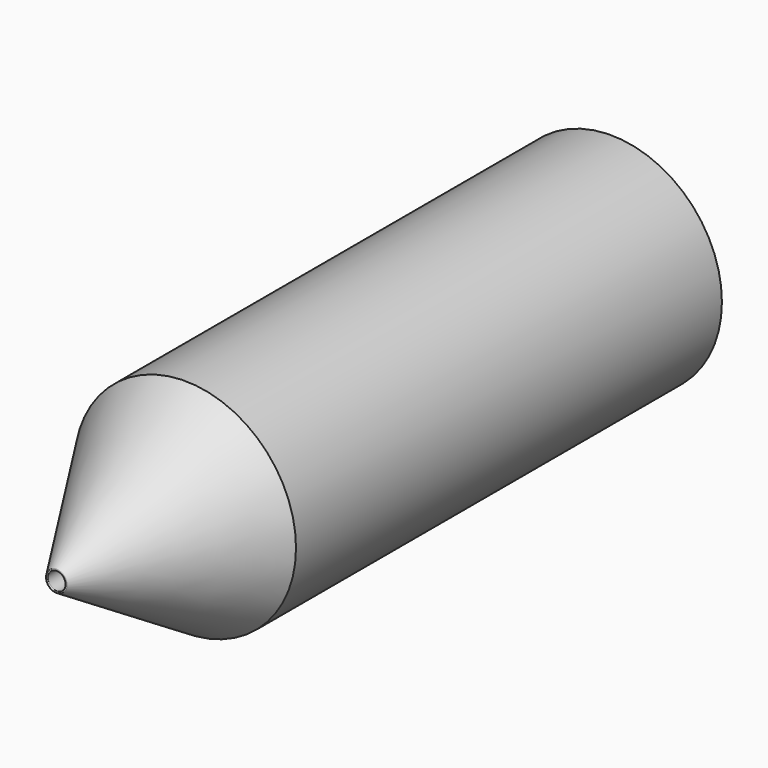
from build123d import *

# Parameters (mm, degrees)
F0_R     = 31.75
F0_R_2   = 27.94
F1_DEPTH = 76.2
F4_R     = 0.254


with BuildPart() as f1:
    # F0 (on Front) → F1 (new body, symmetric)
    with BuildSketch(Plane.XZ):
        Circle(F0_R)
        Circle(F0_R_2, mode=Mode.SUBTRACT)
        Circle(F0_R)
        Circle(F0_R_2, mode=Mode.SUBTRACT)
    extrude(amount=F1_DEPTH, both=True)

    # F2 (on Top) → F3 (revolve)
    with BuildSketch(Plane.XY):
        Polygon((31.75, -76.2), (27.94, -76.2), (2.54, -116.84), (2.54, -122.936), align=None)
    revolve(axis=Axis((0, -64.747475, 0), (0, -1, 0)))

    # F4
    f4_edges = [f1.edges().sort_by_distance(p)[0] for p in [
        (-2.54, -122.936, 0),
    ]]
    fillet(f4_edges, radius=F4_R)


solid = f1.part
